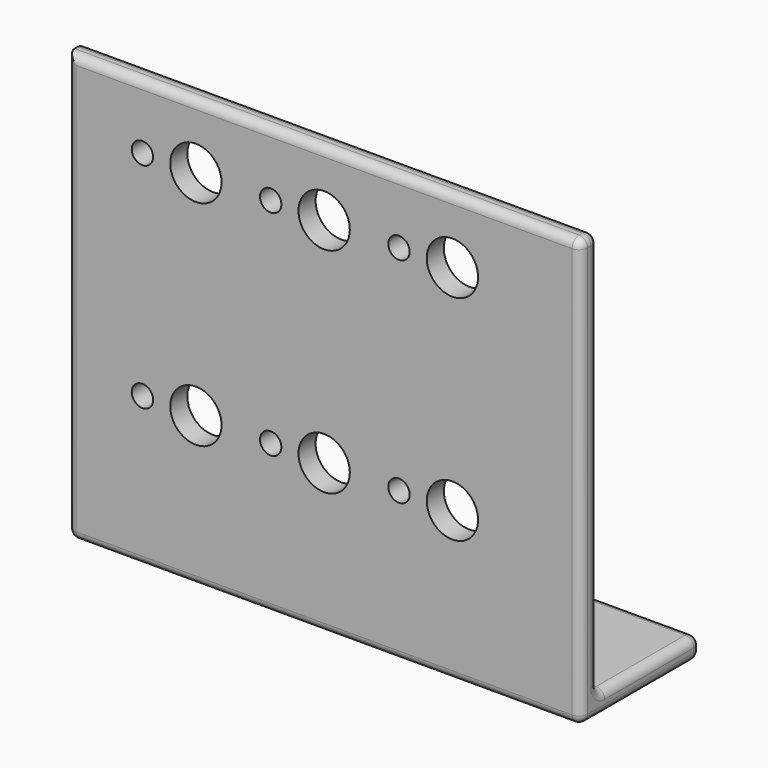
from build123d import *

# Parameters (mm, degrees)
F0_W     = 76.2
F0_H     = 63.5
F0_R     = 1.5875
F0_R_2   = 3.81
F1_DEPTH = 3.175
F3_W     = 76.2
F3_H     = 19.05
F3_R     = 2.54
F4_DEPTH = 3.175
F5_R     = 1.27


with BuildPart() as f1:
    # F0 (on Front) → F1 (new body)
    with BuildSketch(Plane.XZ):
        with Locations((0, 6.35)):
            Rectangle(F0_W, F0_H)
        with Locations((-26.9875, -3.175)):
            Circle(F0_R, mode=Mode.SUBTRACT)
        with Locations((-19.05, -3.175)):
            Circle(F0_R_2, mode=Mode.SUBTRACT)
        with Locations((-7.9375, -3.175)):
            Circle(F0_R, mode=Mode.SUBTRACT)
        with Locations((0, -3.175)):
            Circle(F0_R_2, mode=Mode.SUBTRACT)
        with Locations((11.1125, -3.175)):
            Circle(F0_R, mode=Mode.SUBTRACT)
        with Locations((19.05, -3.175)):
            Circle(F0_R_2, mode=Mode.SUBTRACT)
        with Locations((-26.9875, 28.575)):
            Circle(F0_R, mode=Mode.SUBTRACT)
        with Locations((-19.05, 28.575)):
            Circle(F0_R_2, mode=Mode.SUBTRACT)
        with Locations((-7.9375, 28.575)):
            Circle(F0_R, mode=Mode.SUBTRACT)
        with Locations((0, 28.575)):
            Circle(F0_R_2, mode=Mode.SUBTRACT)
        with Locations((11.1125, 28.575)):
            Circle(F0_R, mode=Mode.SUBTRACT)
        with Locations((19.05, 28.575)):
            Circle(F0_R_2, mode=Mode.SUBTRACT)
    extrude(amount=F1_DEPTH)

    # F3 (on face) → F4 (join)
    with BuildSketch(Plane(origin=(0, 0, -25.4), x_dir=(1, 0, 0), z_dir=(0, 0, -1))):
        with Locations((0, -9.525)):
            Rectangle(F3_W, F3_H)
        with Locations((-25.4, -9.525)):
            Circle(F3_R, mode=Mode.SUBTRACT)
        with Locations((25.4, -9.525)):
            Circle(F3_R, mode=Mode.SUBTRACT)
    extrude(amount=-F4_DEPTH)

    # F5
    f5_edges = [f1.edges().sort_by_distance(p)[0] for p in [
        (38.1, -3.175, 6.35),
        (38.1, 0, 7.9375),
        (-38.1, -3.175, 6.35),
        (-38.1, 0, 7.9375),
        (0, 0, 38.1),
        (0, -3.175, 38.1),
        (0, 0, -22.225),
        (0, 19.05, -22.225),
        (38.1, 7.9375, -25.4),
        (38.1, -1.5875, 38.1),
        (38.1, 9.525, -22.225),
        (38.1, 19.05, -23.8125),
        (0, 19.05, -25.4),
        (-38.1, 7.9375, -25.4),
        (0, -3.175, -25.4),
        (-38.1, 9.525, -22.225),
    ]]
    fillet(f5_edges, radius=F5_R)


solid = f1.part
